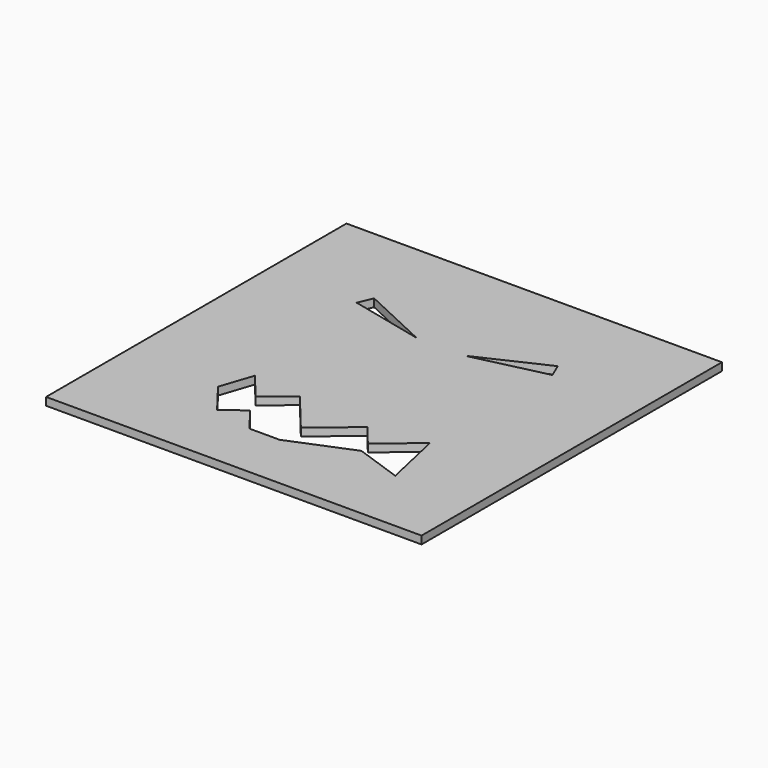
from build123d import *

# Parameters (mm, degrees)
F0_W     = 152.4
F0_H     = 152.4
F1_DEPTH = 3.175


with BuildPart() as f1:
    # F0 (on Top) → F1 (new body)
    with BuildSketch(Plane.XY):
        Rectangle(F0_W, F0_H)
        Polygon((-38.028175, -36.692278), (-33.612002, -23.464767), (-24.494429, -34.536101), (-13.657085, -25.611226), (0, -42.194824), (16.270282, -28.795762), (23.419121, -37.476491), (38.59369, -24.979782), (44.050138, -49.352157), (25.000943, -42.676793), (0, -52.934063), (-12.283398, -52.934063), (-19.935643, -43.002425), (-28.237687, -49.399082), align=None, mode=Mode.SUBTRACT)
        Polygon((-39.728351, 35.782534), (-37.243412, 41.580727), (-9.90904, 28.824696), align=None, mode=Mode.SUBTRACT)
        Polygon((39.728351, 35.782534), (9.90904, 28.824696), (37.243412, 41.580727), align=None, mode=Mode.SUBTRACT)
    extrude(amount=F1_DEPTH)


solid = f1.part
